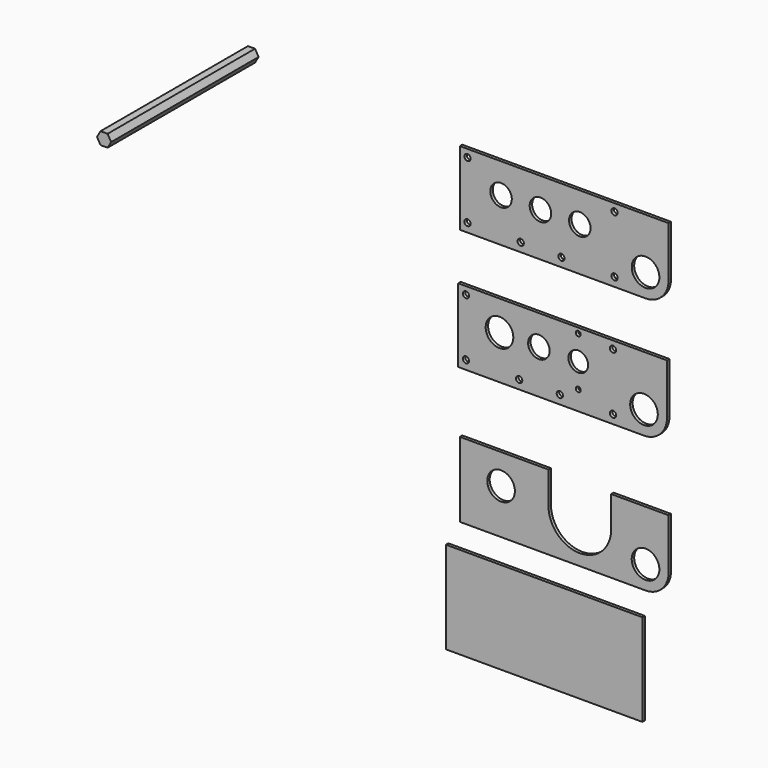
from build123d import *

# Parameters (mm, degrees)
F0_R     = 3.2385
F0_R_2   = 14.2875
F0_R_3   = 11.1125
F0_R_4   = 2.57937
F0_R_5   = 10.16
F0_W     = 203.2
F0_H     = 95.25
F1_DEPTH = 3.175
F2_DEPTH = 190.5


with BuildPart() as f1:
    # F0 (on Front) → F1 (new body)
    with BuildSketch(Plane.XZ):
        with BuildLine():
            Line((186.531053, -171.95397), (-29.297827, -171.95397))
            Line((-29.297827, -171.95397), (-29.297827, -248.15397))
            Line((-29.297827, -248.15397), (162.726892, -248.15397))
            ThreePointArc((162.726892, -248.15397), (179.786207, -240.955166), (186.531053, -223.711325))
            Line((186.531053, -223.711325), (186.531053, -171.95397))
        make_face()
        with Locations((-21.360327, -239.05061)):
            Circle(F0_R, mode=Mode.SUBTRACT)
        with Locations((33.668773, -239.05061)):
            Circle(F0_R, mode=Mode.SUBTRACT)
        with Locations((75.754033, -239.05061)):
            Circle(F0_R, mode=Mode.SUBTRACT)
        with Locations((-21.360327, -179.82035)):
            Circle(F0_R, mode=Mode.SUBTRACT)
        with Locations((13.341153, -202.80481)):
            Circle(F0_R_2, mode=Mode.SUBTRACT)
        with Locations((54.057353, -202.80481)):
            Circle(F0_R_3, mode=Mode.SUBTRACT)
        with Locations((94.773553, -228.20481)):
            Circle(F0_R_4, mode=Mode.SUBTRACT)
        with Locations((130.681533, -239.05061)):
            Circle(F0_R, mode=Mode.SUBTRACT)
        with Locations((162.726892, -224.34147)):
            Circle(F0_R_2, mode=Mode.SUBTRACT)
        with Locations((94.773553, -202.80481)):
            Circle(F0_R_5, mode=Mode.SUBTRACT)
        with Locations((130.681533, -179.82797)):
            Circle(F0_R, mode=Mode.SUBTRACT)
        with Locations((94.773553, -177.40481)):
            Circle(F0_R_4, mode=Mode.SUBTRACT)
        with Locations((59.476455, -461.641734)):
            Rectangle(F0_W, F0_H)
        with BuildLine():
            Line((188.145518, -46.517293), (-27.683362, -46.517293))
            Line((-27.683362, -46.517293), (-27.683362, -122.717293))
            Line((-27.683362, -122.717293), (164.341357, -122.717293))
            ThreePointArc((164.341357, -122.717293), (181.400673, -115.518489), (188.145518, -98.274648))
            Line((188.145518, -98.274648), (188.145518, -46.517293))
        make_face()
        with Locations((-19.745862, -113.613933)):
            Circle(F0_R, mode=Mode.SUBTRACT)
        with Locations((35.283238, -113.613933)):
            Circle(F0_R, mode=Mode.SUBTRACT)
        with Locations((77.368498, -113.613933)):
            Circle(F0_R, mode=Mode.SUBTRACT)
        with Locations((14.955618, -77.368133)):
            Circle(F0_R_3, mode=Mode.SUBTRACT)
        with Locations((-19.745862, -54.383673)):
            Circle(F0_R, mode=Mode.SUBTRACT)
        with Locations((55.671818, -77.368133)):
            Circle(F0_R_3, mode=Mode.SUBTRACT)
        with Locations((132.295998, -113.613933)):
            Circle(F0_R, mode=Mode.SUBTRACT)
        with Locations((164.341357, -98.904793)):
            Circle(F0_R_2, mode=Mode.SUBTRACT)
        with Locations((96.388018, -77.368133)):
            Circle(F0_R_3, mode=Mode.SUBTRACT)
        with Locations((132.295998, -54.391293)):
            Circle(F0_R, mode=Mode.SUBTRACT)
        with BuildLine():
            Line((-27.683362, -311.162212), (-27.683362, -388.566278))
            Line((-27.683362, -388.566278), (164.333018, -388.566278))
            ThreePointArc((164.333018, -388.566278), (181.170999, -381.591758), (188.145518, -364.753778))
            Line((188.145518, -364.753778), (188.145518, -312.366278))
            Line((188.145518, -312.366278), (128.798418, -312.366278))
            Line((128.798418, -312.366278), (128.798418, -342.706472))
            ThreePointArc((128.798418, -342.706472), (97.270681, -376.776828), (64.025878, -344.379753))
            Line((64.025878, -344.379753), (64.025878, -311.162212))
            Line((64.025878, -311.162212), (-27.683362, -311.162212))
        make_face()
        with Locations((14.955618, -342.013052)):
            Circle(F0_R_2, mode=Mode.SUBTRACT)
        with Locations((164.333018, -364.753778)):
            Circle(F0_R_2, mode=Mode.SUBTRACT)
    extrude(amount=F1_DEPTH)


with BuildPart() as f2:
    # F0 (on Front) → F2 (new body)
    with BuildSketch(Plane.XZ):
        Polygon((-249.269408, -41.596562), (-241.937059, -41.596562), (-238.270885, -35.246562), (-241.937059, -28.896562), (-249.269408, -28.896562), (-252.935582, -35.246562), align=None)
    extrude(amount=F2_DEPTH)


solid = Compound([f1.part, f2.part])
